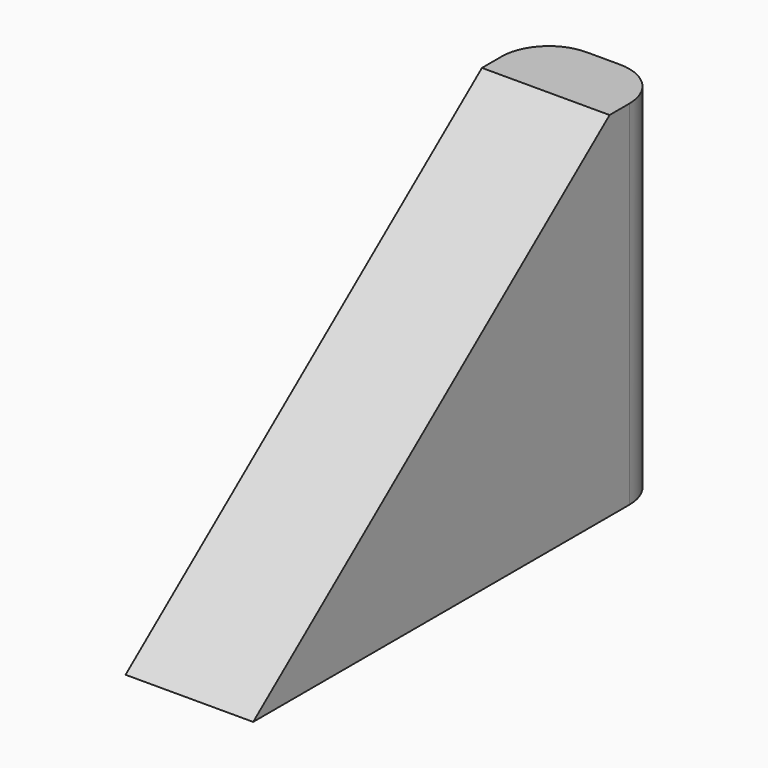
from build123d import *

# Parameters (mm, degrees)
BOX002_W        = 2.71
BOX002_H        = 11
BOX002_DEPTH    = 7.5
POCKET001_DEPTH = 5
FILLET002_R     = 1


with BuildPart() as part:
    # Box002 → Box002 (new body)
    with BuildSketch(Plane(origin=(4.64, 9.35, 0), x_dir=(1, 0, 0), z_dir=(0, 0, 1))):
        with Locations((1.355, 5.5)):
            Rectangle(BOX002_W, BOX002_H)
    extrude(amount=BOX002_DEPTH)

    # Sketch001 → Pocket001 (cut)
    with BuildSketch(Plane(origin=(4.64, 9.35, 0), x_dir=(0, -1, 0), z_dir=(-1, 0, 0))):
        Polygon((-9.540607, 7.550952), (0.165381, -0.144127), (0.165381, 8.596624), align=None)
    extrude(amount=-POCKET001_DEPTH, mode=Mode.SUBTRACT)

    # Fillet002
    fillet002_edges = [part.edges().sort_by_distance(p)[0] for p in [
        (4.64, 20.35, 3.75),
        (7.35, 20.35, 3.75),
    ]]
    fillet(fillet002_edges, radius=FILLET002_R)


solid = part.part
